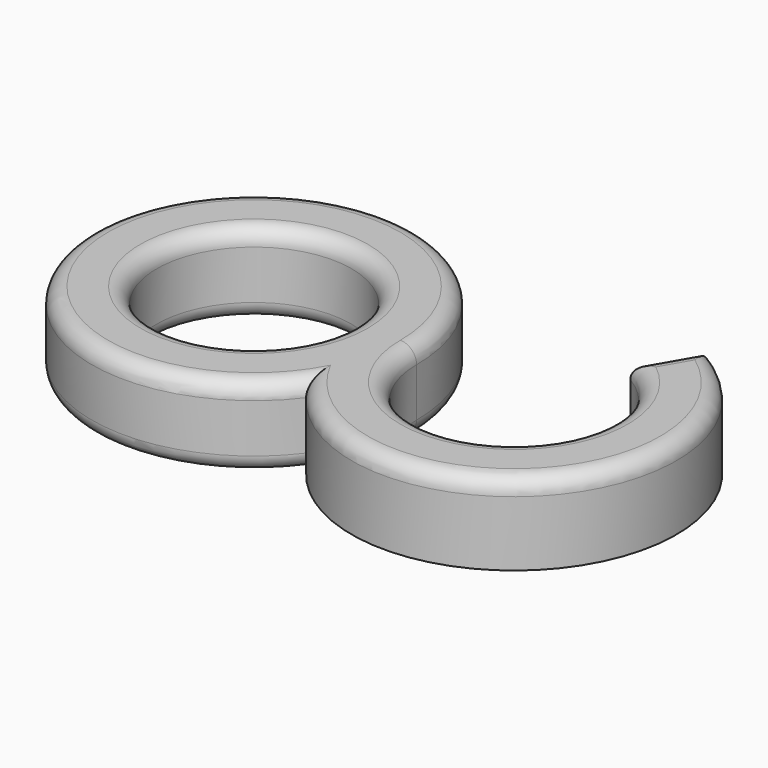
from build123d import *

# Parameters (mm, degrees)
CYLINDER003_R     = 6
CYLINDER003_DEPTH = 10
CYLINDER002_W     = 10
CYLINDER002_H     = 5
CYLINDER002_ANGLE = 240
CYLINDER001_R     = 6
CYLINDER001_DEPTH = 10
CYLINDER_R        = 10
CYLINDER_DEPTH    = 5
FILLET_R          = 1
FILLET001_R       = 1
FILLET002_R       = 1


with BuildPart() as obj1:
    # Cylinder003 → Cylinder003 (new body)
    with BuildSketch(Plane(origin=(16, 0, -3), x_dir=(1, 0, 0), z_dir=(0, 0, 1))):
        Circle(CYLINDER003_R)
    extrude(amount=CYLINDER003_DEPTH)


with BuildPart() as obj2:
    # Cylinder002 → Cylinder002 (revolve)
    with BuildSketch(Plane(origin=(16, 0, 0), x_dir=(-1, 0, 0), z_dir=(0, 1, 0))):
        with Locations((5, 2.5)):
            Rectangle(CYLINDER002_W, CYLINDER002_H)
    revolve(axis=Axis((16, 0, 0), (0, 0, 1)), revolution_arc=CYLINDER002_ANGLE)

    # Cut001: cut obj1
    add(obj1.part, mode=Mode.SUBTRACT)


with BuildPart() as obj3:
    # Cylinder001 → Cylinder001 (new body)
    with BuildSketch(Plane.XY.offset(-3)):
        Circle(CYLINDER001_R)
    extrude(amount=CYLINDER001_DEPTH)


with BuildPart() as fillet002:
    # Cylinder → Cylinder (new body)
    with BuildSketch(Plane.XY):
        Circle(CYLINDER_R)
    extrude(amount=CYLINDER_DEPTH)

    # Cut: cut obj3
    add(obj3.part, mode=Mode.SUBTRACT)

    # Fusion: union obj2
    add(obj2.part)

    # Fillet
    fillet_edges = [fillet002.edges().sort_by_distance(p)[0] for p in [
        (20, 6.928203, 5),
        (23.482029, -6.6347, 5),
        (21.196152, 3, 5),
        (16, -6, 5),
        (-9.486833, 3.162278, 5),
    ]]
    fillet(fillet_edges, radius=FILLET_R)

    # Fillet001
    fillet001_edges = [fillet002.edges().sort_by_distance(p)[0] for p in [
        (-6, 0, 0),
        (-6, 0, 5),
    ]]
    fillet(fillet001_edges, radius=FILLET001_R)

    # Fillet002
    fillet002_edges = [fillet002.edges().sort_by_distance(p)[0] for p in [
        (-9.486833, 3.162278, 0),
    ]]
    fillet(fillet002_edges, radius=FILLET002_R)


solid = fillet002.part
